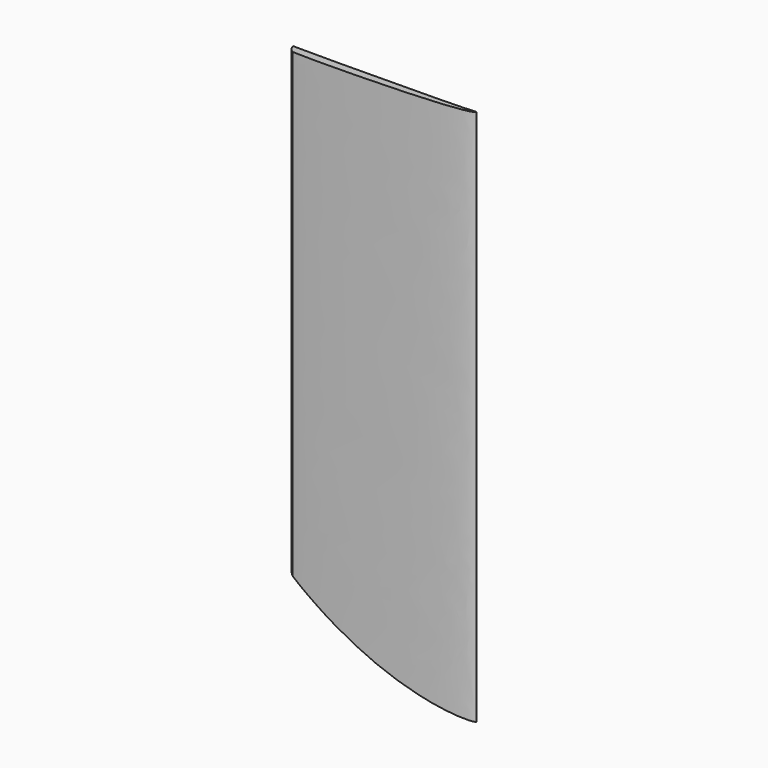
from build123d import *

# Parameters (mm, degrees)
F1_DEPTH = 228.6
F3_DEPTH = 18.288


with BuildPart() as f1:
    # F0 (on Top) → F1 (new body)
    with BuildSketch(Plane.XY):
        with BuildLine():
            add(Edge.make_bspline(
                [(-41.913673, 5.737344), (-33.459276, 5.517209), (26.184954, 5.97625), (34.269523, 6.804597)],
                knots=[0, 0, 0, 0, 76.190671, 76.190671, 76.190671, 76.190671], degree=3))
            add(Edge.make_bspline(
                [(-41.913673, 5.737344), (-41.384695, 4.222151), (-41.05482, 3.411896), (-39.403347, 2.432692)],
                knots=[0, 0, 0, 0, 4.149995, 4.149995, 4.149995, 4.149995], degree=3))
            add(Edge.make_bspline(
                [(-39.403347, 2.432692), (-30.416039, 1.790823), (32.580122, 2.812204), (34.269523, 6.804597)],
                knots=[0, 0, 0, 0, 73.802476, 73.802476, 73.802476, 73.802476], degree=3))
        make_face()
    extrude(amount=F1_DEPTH)

    # F2 (on Front) → F3 (cut)
    with BuildSketch(Plane.XZ):
        with BuildLine():
            add(Edge.make_bspline(
                [(-88.059023, 76.04757), (-94.862555, 45.078372), (-111.484175, -73.115654), (-6.149788, -18.574719), (52.353118, 2.78906)],
                knots=[0, 0, 0, 0, 98.755339, 241.463634, 241.463634, 241.463634, 241.463634], degree=3))
            add(Edge.make_bspline(
                [(52.353118, 2.78906), (-30.601371, 0), (-74.41283, 76.765791), (-88.059023, 76.04757)],
                knots=[0, 0, 0, 0, 158.374172, 158.374172, 158.374172, 158.374172], degree=3))
        make_face()
    extrude(amount=-F3_DEPTH, mode=Mode.SUBTRACT)


solid = f1.part
